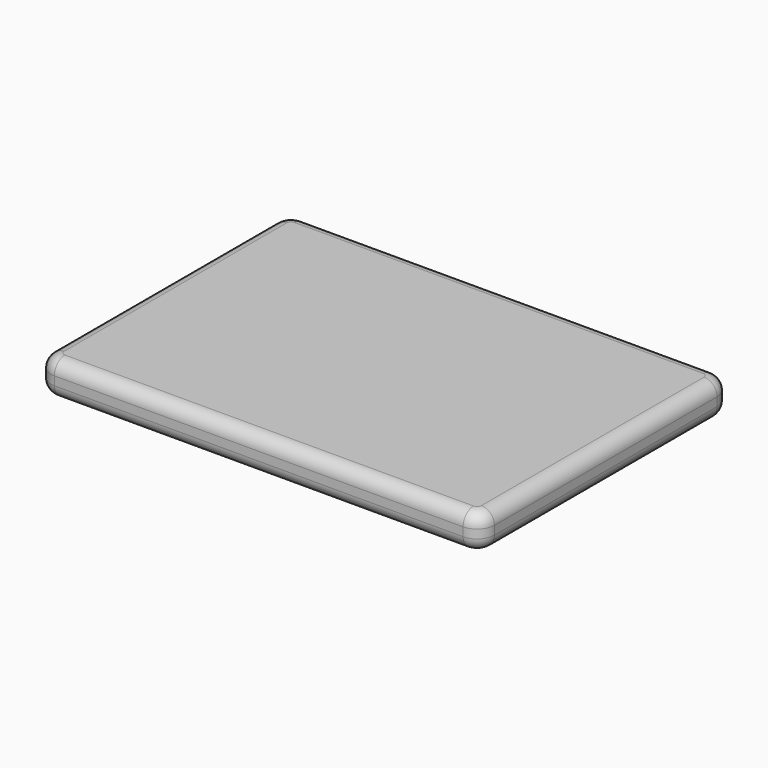
from build123d import *

# Parameters (mm, degrees)
F0_W     = 323.85
F0_H     = 228.6
F1_DEPTH = 25.4
F2_R     = 12.7
F3_R     = 9.525


with BuildPart() as f1:
    # F0 (on Top) → F1 (new body)
    with BuildSketch(Plane.XY):
        Rectangle(F0_W, F0_H)
    extrude(amount=F1_DEPTH)

    # F2
    f2_edges = [f1.edges().sort_by_distance(p)[0] for p in [
        (-161.925, -114.3, 12.7),
        (161.925, -114.3, 12.7),
        (161.925, 114.3, 12.7),
        (-161.925, 114.3, 12.7),
    ]]
    fillet(f2_edges, radius=F2_R)

    # F3
    f3_edges = [f1.edges().sort_by_distance(p)[0] for p in [
        (0, 114.3, 25.4),
        (-161.925, 0, 0),
    ]]
    fillet(f3_edges, radius=F3_R)


solid = f1.part
